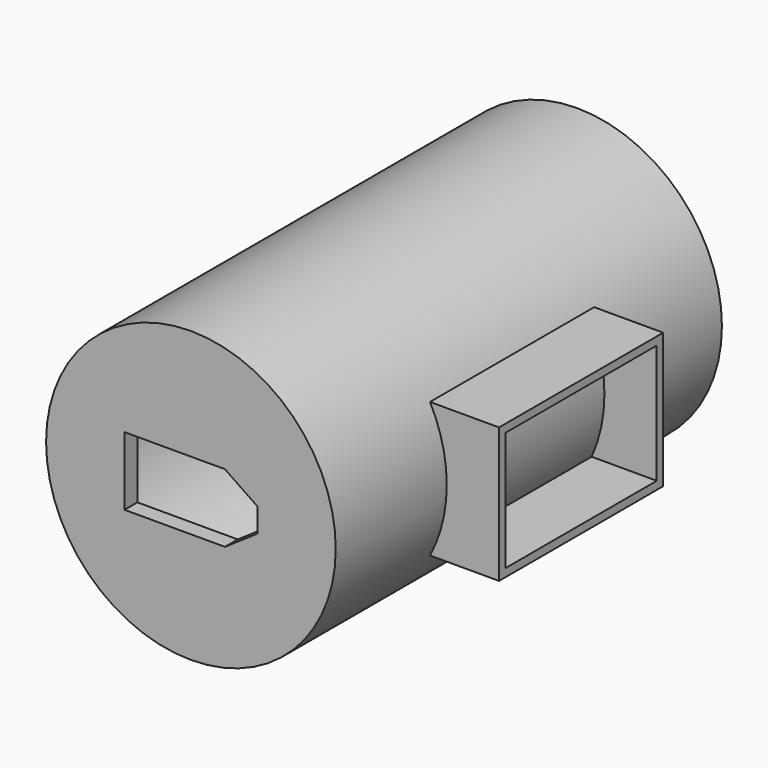
from build123d import *

# Parameters (mm, degrees)
F0_R     = 18
F0_R_2   = 16
F1_DEPTH = 60
F0_R_3   = 11
F2_DEPTH = 8
F3_W     = 25.5
F3_H     = 16.8
F3_W_2   = 23.5
F3_H_2   = 14.8
F4_DEPTH = 24.5
F5_DEPTH = 28.5
F6_DEPTH = 60
F7_DEPTH = 58
F8_DEPTH = 2


with BuildPart() as f1:
    # F0 (on Front) → F1 (new body)
    with BuildSketch(Plane.XZ):
        Circle(F0_R)
        Circle(F0_R_2, mode=Mode.SUBTRACT)
    extrude(amount=F1_DEPTH)

    # F0 (on Front) → F2 (join)
    with BuildSketch(Plane.XZ):
        Circle(F0_R_2)
        Circle(F0_R_3, mode=Mode.SUBTRACT)
    extrude(amount=F2_DEPTH)

    # F3 (on Right) → F4 (join)
    with BuildSketch(Plane.YZ):
        with Locations((-30, 0)):
            Rectangle(F3_W, F3_H)
        with Locations((-30, 0)):
            Rectangle(F3_W_2, F3_H_2, mode=Mode.SUBTRACT)
    extrude(amount=F4_DEPTH)

    # F5 (cut): a face of the model
    f5_faces = [f1.faces().sort_by_distance(p)[0] for p in [
        (7.6317317332, -42.75, 0),
    ]]
    extrude(f5_faces, amount=-F5_DEPTH, mode=Mode.SUBTRACT)

    # F0 (on Front) → F6 (join)
    with BuildSketch(Plane.XZ):
        Circle(F0_R_2)
        Circle(F0_R_3, mode=Mode.SUBTRACT)
        Circle(F0_R_3)
        Polygon((4.2248526588, 4.25), (8.25, 4.25), (8.25, 1.5), (8.25, -1.5), (8.25, -4.25), (4.2248526588, -4.25), (-8.25, -4.25), (-8.25, 4.25), align=None, mode=Mode.SUBTRACT)
        Polygon((8.25, 1.5), (8.25, 4.25), (4.2248526588, 4.25), align=None)
        Polygon((8.25, -4.25), (8.25, -1.5), (4.2248526588, -4.25), align=None)
    extrude(amount=F6_DEPTH)

    # F0 (on Front) → F7 (cut)
    with BuildSketch(Plane.XZ):
        Circle(F0_R_2)
        Circle(F0_R_3, mode=Mode.SUBTRACT)
        Circle(F0_R_3)
        Polygon((4.2248526588, 4.25), (8.25, 4.25), (8.25, 1.5), (8.25, -1.5), (8.25, -4.25), (4.2248526588, -4.25), (-8.25, -4.25), (-8.25, 4.25), align=None, mode=Mode.SUBTRACT)
        Polygon((8.25, 1.5), (8.25, 4.25), (4.2248526588, 4.25), align=None)
        Polygon((8.25, -4.25), (8.25, -1.5), (4.2248526588, -4.25), align=None)
    extrude(amount=F7_DEPTH, mode=Mode.SUBTRACT)

    # F0 (on Front) → F8 (join)
    with BuildSketch(Plane.XZ):
        Circle(F0_R_2)
        Circle(F0_R_3, mode=Mode.SUBTRACT)
    extrude(amount=F8_DEPTH)


solid = f1.part
